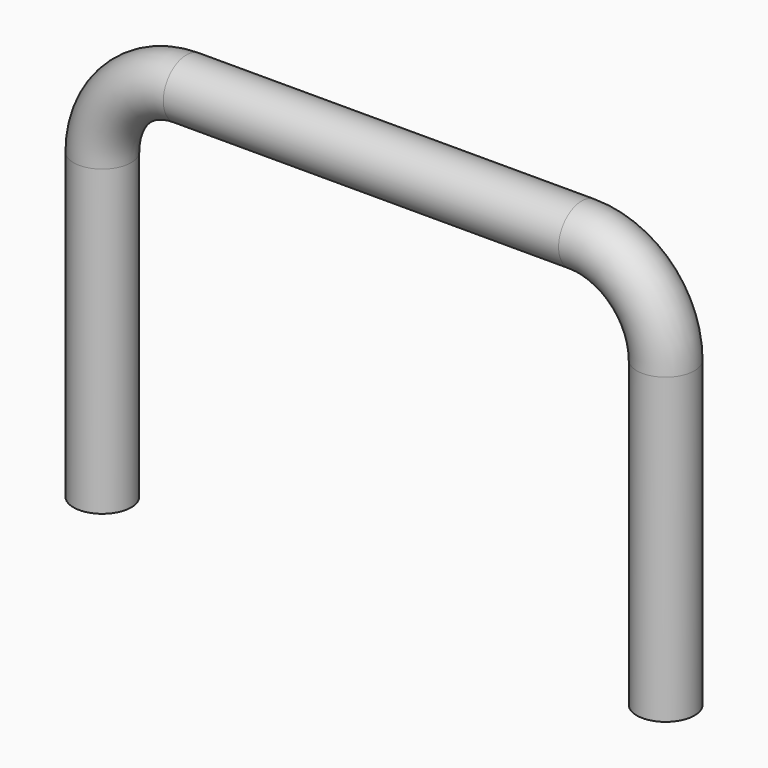
from build123d import *

# Parameters (mm, degrees)
F2_R = 0.65405


with BuildPart() as f3:
    # F3: sweep along a path in F0
    with BuildLine(Plane.XZ) as f3_path:
        Line((0, 0), (0, 6.8834))
        ThreePointArc((0, 6.8834), (0.557962, 8.230438), (1.905, 8.7884))
        Line((1.905, 8.7884), (10.8712, 8.7884))
        ThreePointArc((10.8712, 8.7884), (12.218238, 8.230438), (12.7762, 6.8834))
        Line((12.7762, 6.8834), (12.7762, 0))
    # F2 (on plane+point) → F3 (sweep)
    with BuildSketch(Plane.XY):
        Circle(F2_R)
    sweep(path=f3_path.line)


solid = f3.part
